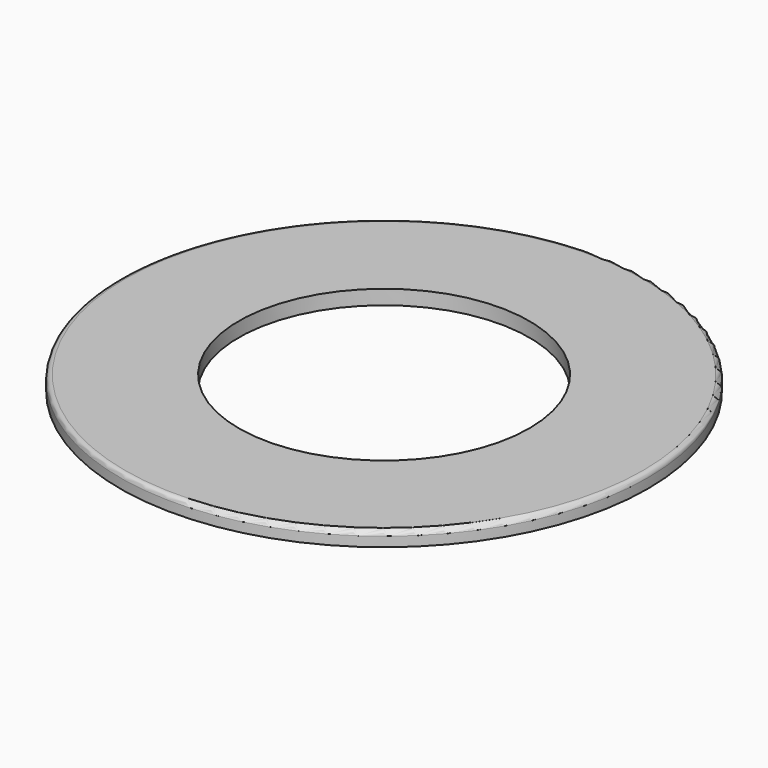
from build123d import *

# Parameters (mm, degrees)
F0_R     = 54.5
F0_R_2   = 30
F1_DEPTH = 3
F2_R     = 1


with BuildPart() as f1:
    # F0 (on Top) → F1 (new body)
    with BuildSketch(Plane.XY):
        Circle(F0_R)
        Circle(F0_R_2, mode=Mode.SUBTRACT)
    extrude(amount=-F1_DEPTH)

    # F2
    f2_edges = [f1.edges().sort_by_distance(p)[0] for p in [
        (-54.5, 0, 0),
    ]]
    fillet(f2_edges, radius=F2_R)


solid = f1.part
